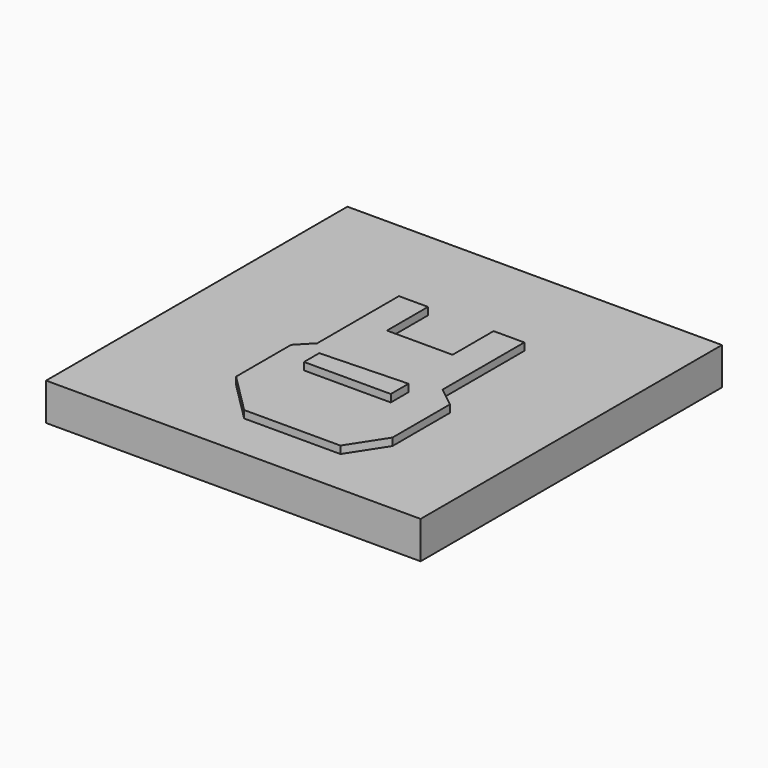
from build123d import *

# Parameters (mm, degrees)
F0_W     = 100.278783
F0_H     = 100.845326
F1_DEPTH = 10
F3_DEPTH = 2
F4_W     = 20.395683
F4_H     = 3.682554
F5_DEPTH = 2
F7_DEPTH = 2


with BuildPart() as f1:
    # F0 (on Top) → F1 (new body)
    with BuildSketch(Plane.XY):
        with Locations((14.022036, -22.520235)):
            Rectangle(F0_W, F0_H)
    extrude(amount=F1_DEPTH)

    # F2 (on face) → F3 (join)
    with BuildSketch(Plane.XY.offset(10)):
        Polygon((7.790018, 0), (0, 0), (0, -27.335884), (-3.824191, -31.301711), (-3.824191, -49.71448), (6.940198, -60.478866), (32.718081, -60.478866), (38.950093, -50.847575), (38.950093, -31.584986), (33.567898, -27.335884), (33.567898, 0), (25.352968, 0), (25.352968, -13.738759), (7.790018, -13.738759), align=None)
    extrude(amount=F3_DEPTH)

    # F4 (on face) → F5 (join)
    with BuildSketch(Plane.XY.offset(12)):
        with Locations((17.987859, -37.675362)):
            Rectangle(F4_W, F4_H)
    extrude(amount=-F5_DEPTH)

    # F6 (on face) → F7 (join)
    with BuildSketch(Plane.XY.offset(12)):
        Polygon((28.752247, -32.718077), (5.523832, -33.567894), (5.523832, -38.666818), (28.752247, -38.666818), align=None)
    extrude(amount=F7_DEPTH)


solid = f1.part
